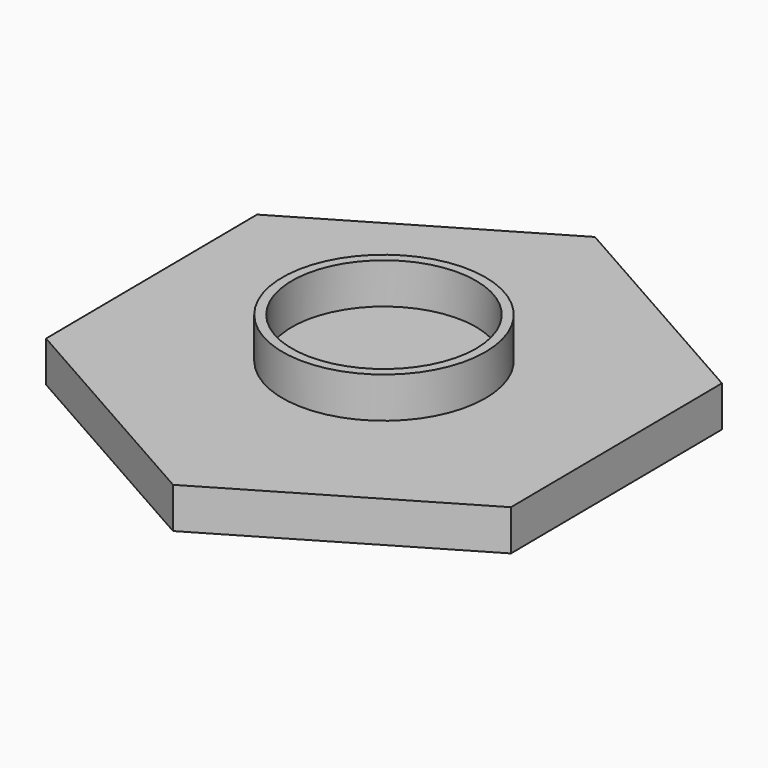
from build123d import *

# Parameters (mm, degrees)
F1_DEPTH = 6.35
F2_R     = 15.8115
F2_R_2   = 14.351
F3_DEPTH = 6.35


with BuildPart() as f1:
    # F0 (on Top) → F1 (new body)
    with BuildSketch(Plane.XY):
        Polygon((0.360184, -41.58426), (36.193117, -20.480202), (35.832934, 21.104058), (-0.360184, 41.58426), (-36.193117, 20.480202), (-35.832934, -21.104058), align=None)
    extrude(amount=F1_DEPTH)

    # F2 (on face) → F3 (join)
    with BuildSketch(Plane.XY.offset(6.35)):
        Circle(F2_R)
        Circle(F2_R_2, mode=Mode.SUBTRACT)
    extrude(amount=F3_DEPTH)


solid = f1.part
